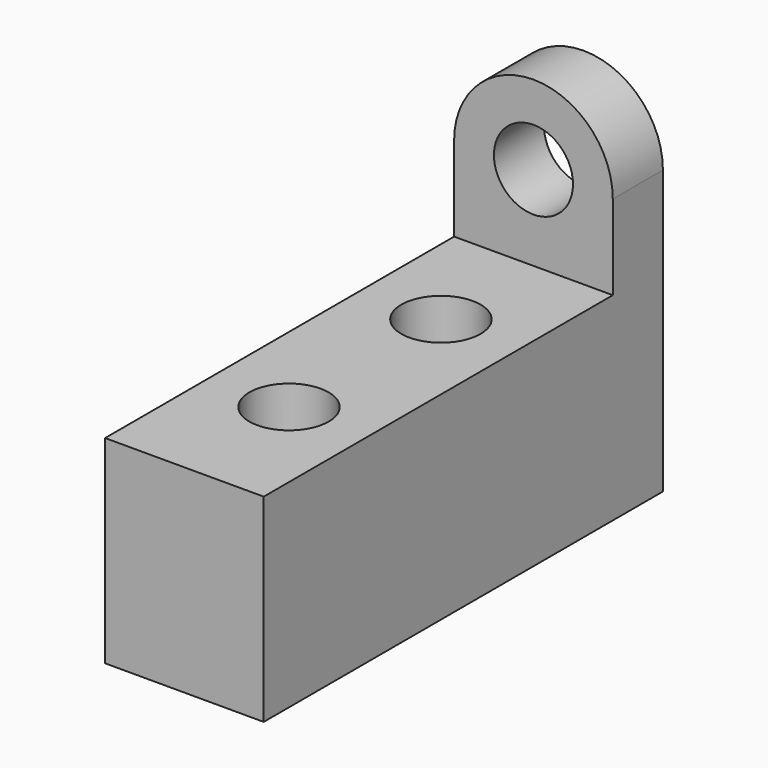
from build123d import *

# Parameters (mm, degrees)
F0_W     = 20
F0_H     = 55
F0_R     = 5
F1_DEPTH = 25
F2_W     = 20
F2_H     = 25
F2_R     = 4.984209
F3_DEPTH = 7.9


with BuildPart() as f1:
    # F0 (on Top) → F1 (new body)
    with BuildSketch(Plane.XY):
        with Locations((0, -27.5)):
            Rectangle(F0_W, F0_H)
        with Locations((0, -38.516)):
            Circle(F0_R, mode=Mode.SUBTRACT)
        with Locations((0, -14.573692)):
            Circle(F0_R, mode=Mode.SUBTRACT)
    extrude(amount=F1_DEPTH)

    # F2 (on Front) → F3 (join)
    with BuildSketch(Plane.XZ):
        with Locations((0, 12.5)):
            Rectangle(F2_W, F2_H)
        with BuildLine():
            Line((-10, 35.677135), (-10, 25))
            Line((-10, 25), (10, 25))
            Line((10, 25), (10, 35.677135))
            ThreePointArc((10, 35.677135), (0, 45.677135), (-10, 35.677135))
        make_face()
        with Locations((0, 35.677135)):
            Circle(F2_R, mode=Mode.SUBTRACT)
    extrude(amount=-F3_DEPTH)


solid = f1.part
